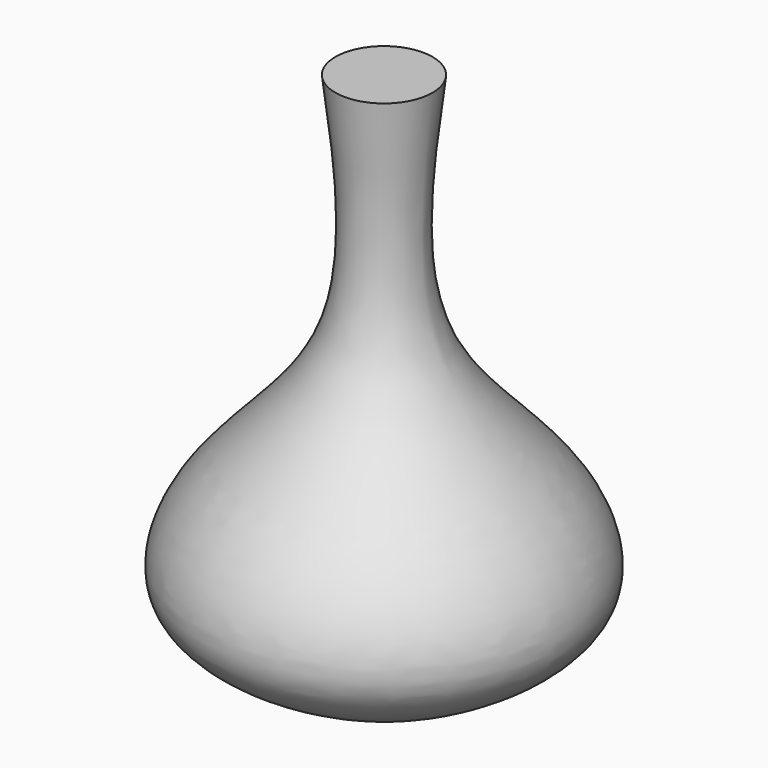
from build123d import *


with BuildPart() as f1:
    # F0 (on Front) → F1 (revolve)
    with BuildSketch(Plane.XZ):
        with BuildLine():
            add(Edge.make_bspline(
                [(5.3571504541, 50.1116737723), (4.1853162194, 40.8397320504), (2.007616922, 23.6090518258), (18.4715001808, 11.4742030763), (22.6556780486, -1.2008148253), (14.3873942544, -5.3161794066), (10.0446576253, -7.4776853435)],
                knots=[0, 0, 0, 0, 0.3131110854, 0.581875636, 0.7803892517, 1, 1, 1, 1], degree=3))
            Line((5.3571504541, 50.1116737723), (0, 50.1116737723))
            Line((0, 50.1116737723), (0, -7.4776853435))
            Line((0, -7.4776853435), (10.0446576253, -7.4776853435))
        make_face()
    revolve(axis=Axis((0, 0, 17.6551807672), (0, 0, -1)))


solid = f1.part
